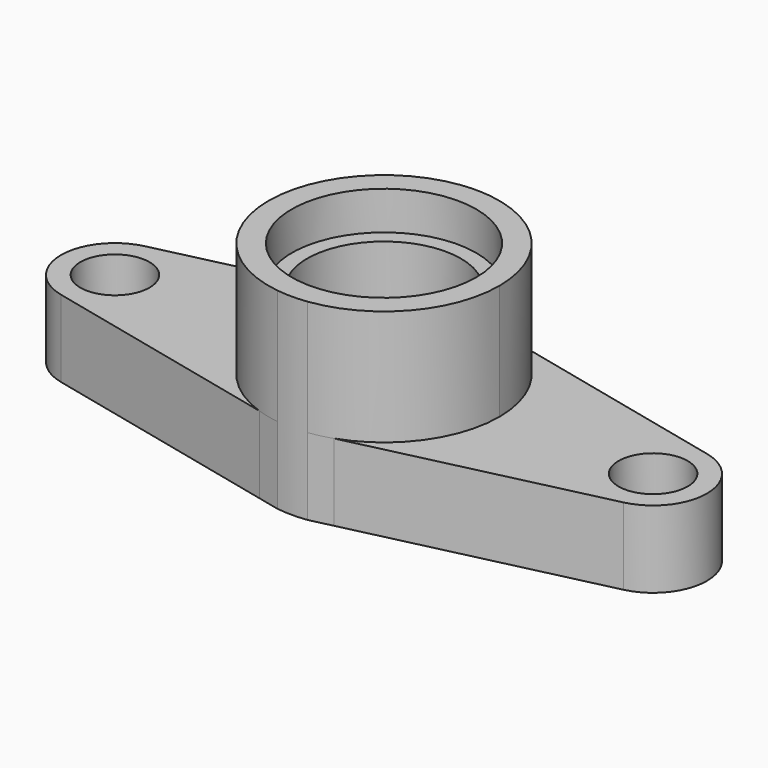
from build123d import *

# Parameters (mm, degrees)
F1_DEPTH  = 254
F3_DEPTH  = 381
F4_R      = 254
F5_DEPTH  = 635
F6_R      = 304.8
F7_DEPTH  = 127
F8_R      = 76.2
F9_DEPTH  = 254
F10_R     = 114.3
F11_DEPTH = 127
F12_R     = 114.3
F13_DEPTH = 127


with BuildPart() as f1:
    # F0 (on Top) → F1 (new body)
    with BuildSketch(Plane.XY):
        with BuildLine():
            ThreePointArc((-122.801875, -360.66702), (-380.999921, 0.244657), (-122.338574, 360.824436))
            Line((-122.338574, 360.824436), (-929.271327, 173.179272))
            ThreePointArc((-929.271327, 173.179272), (-1066.8, -0.005195), (-929.261206, -173.181625))
            Line((-929.261206, -173.181625), (-122.801875, -360.66702))
        make_face()
        with BuildLine():
            Line((122.338574, 360.824436), (49.417791, 377.781527))
            ThreePointArc((49.417791, 377.781527), (0, 381), (-49.417791, 377.781527))
            Line((-49.417791, 377.781527), (-122.338574, 360.824436))
            ThreePointArc((-122.338574, 360.824436), (-380.999921, 0.244657), (-122.801875, -360.66702))
            Line((-122.801875, -360.66702), (-48.888407, -377.850399))
            ThreePointArc((-48.888407, -377.850399), (0, -381), (48.888407, -377.850399))
            Line((48.888407, -377.850399), (122.801875, -360.66702))
            ThreePointArc((122.801875, -360.66702), (309.797123, -221.780844), (381, 0))
            ThreePointArc((381, 0), (309.654644, 221.979733), (122.338574, 360.824436))
        make_face()
        with BuildLine():
            Line((929.271327, 173.179272), (122.338574, 360.824436))
            ThreePointArc((122.338574, 360.824436), (309.654644, 221.979733), (381, 0))
            ThreePointArc((381, 0), (309.797123, -221.780844), (122.801875, -360.66702))
            Line((122.801875, -360.66702), (929.261206, -173.181625))
            ThreePointArc((929.261206, -173.181625), (1066.8, -0.005195), (929.271327, 173.179272))
        make_face()
    extrude(amount=F1_DEPTH)

    # F2 (on face) → F3 (join)
    with BuildSketch(Plane.XY.offset(254)):
        with BuildLine():
            ThreePointArc((381, 0), (286.346973, 251.329288), (49.417791, 377.781527))
            ThreePointArc((49.417791, 377.781527), (0, 381), (-49.417791, 377.781527))
            ThreePointArc((-49.417791, 377.781527), (-380.999906, -0.266923), (-48.888407, -377.850399))
            ThreePointArc((-48.888407, -377.850399), (0, -381), (48.888407, -377.850399))
            ThreePointArc((48.888407, -377.850399), (286.170826, -251.529836), (381, 0))
        make_face()
    extrude(amount=F3_DEPTH)

    # F4 (on face) → F5 (cut)
    with BuildSketch(Plane.XY.offset(635)):
        Circle(F4_R)
    extrude(amount=-F5_DEPTH, mode=Mode.SUBTRACT)

    # F6 (on face) → F7 (cut)
    with BuildSketch(Plane.XY.offset(635)):
        Circle(F6_R)
    extrude(amount=-F7_DEPTH, mode=Mode.SUBTRACT)

    # F8 (on face) → F9 (cut)
    with BuildSketch(Plane.XY.offset(254)):
        with Locations((889, 0)):
            Circle(F8_R)
        with Locations((-889, 0)):
            Circle(F8_R)
    extrude(amount=-F9_DEPTH, mode=Mode.SUBTRACT)

    # F10 (on face) → F11 (cut)
    with BuildSketch(Plane.XY.offset(254)):
        with Locations((-889, 0)):
            Circle(F10_R)
    extrude(amount=-F11_DEPTH, mode=Mode.SUBTRACT)

    # F12 (on face) → F13 (cut)
    with BuildSketch(Plane.XY.offset(254)):
        with Locations((889, 0)):
            Circle(F12_R)
    extrude(amount=-F13_DEPTH, mode=Mode.SUBTRACT)


solid = f1.part
